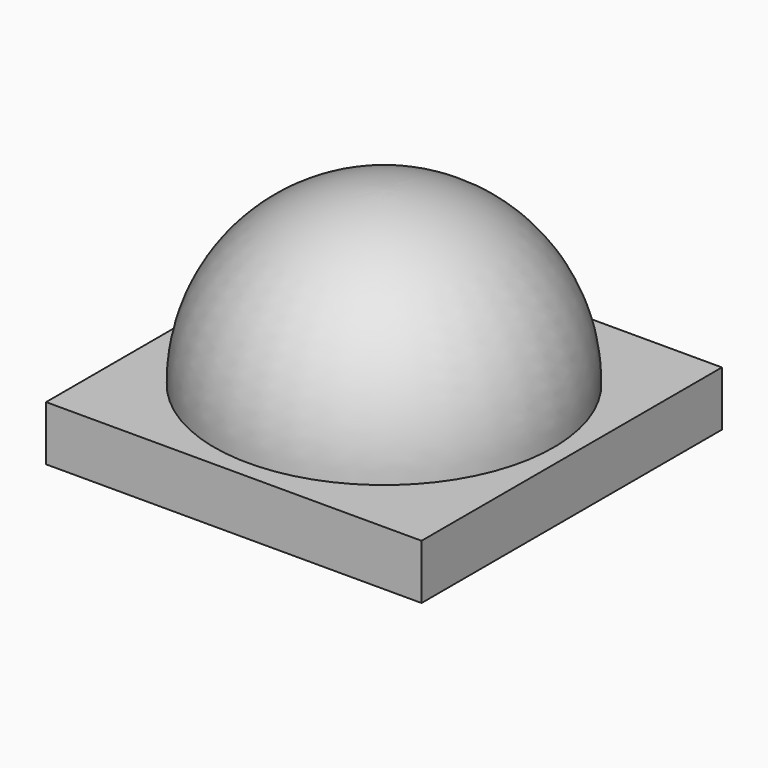
from build123d import *

# Parameters (mm, degrees)
F0_W     = 5
F0_H     = 5
F1_DEPTH = 0.73


with BuildPart() as f1:
    # F0 (on Top) → F1 (new body)
    with BuildSketch(Plane.XY):
        Rectangle(F0_W, F0_H)
    extrude(amount=F1_DEPTH)

    # F2 (on Right) → F3 (revolve)
    with BuildSketch(Plane.YZ):
        with BuildLine():
            Line((0, 3.02), (0, 0.73))
            Line((0, 0.73), (2.259801, 0.73))
            ThreePointArc((2.259801, 0.73), (1.608633, 2.347419), (0, 3.02))
        make_face()
    revolve(axis=Axis((0, 0, 1.875), (0, 0, 1)))


solid = f1.part
